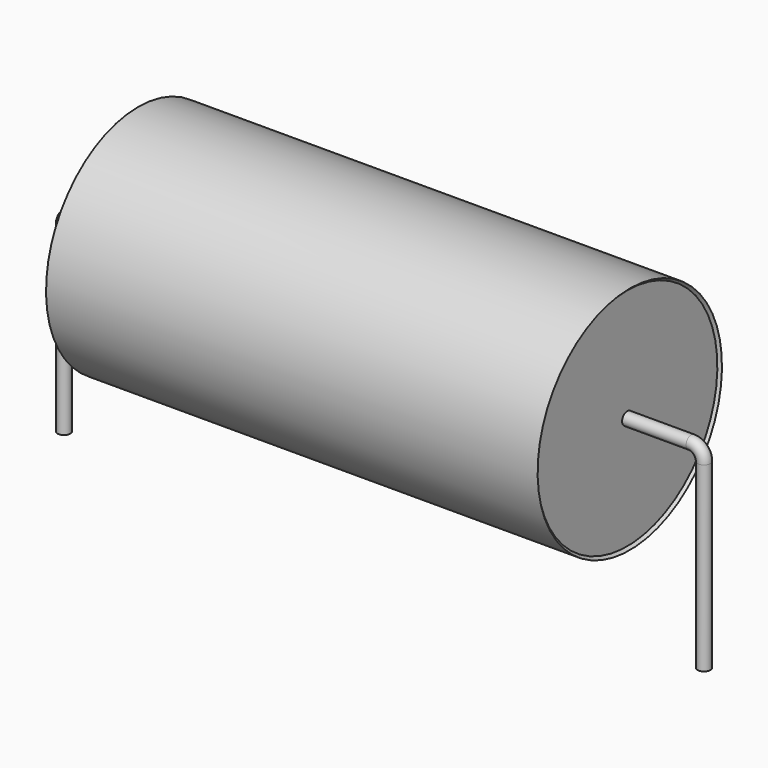
from build123d import *

# Parameters (mm, degrees)
SKETCH_R = 0.25


with BuildPart() as sweep_body:
    # Sweep: sweep along a path in Sketch001
    with BuildLine(Plane.XZ) as sweep_path:
        Line((0, -3), (0, 4.1))
        ThreePointArc((0, 4.1), (0.146445, 4.453551), (0.499995, 4.6))
        Line((0.499995, 4.6), (24.5, 4.6))
        ThreePointArc((24.5, 4.6), (24.853553, 4.453553), (25, 4.1))
        Line((25, 4.1), (25, -3))
    # Sketch → Sweep (sweep)
    with BuildSketch(Plane.XY.offset(-2)):
        Circle(SKETCH_R)
    sweep(path=sweep_path.line)


with BuildPart() as revolution:
    # Sketch002 → Revolution (revolve)
    with BuildSketch(Plane.XZ):
        Polygon((2.9, 9.1), (22.1, 9.1), (22, 9), (22, 4.6), (3, 4.6), (3, 9), align=None)
    revolve(axis=Axis((7.611803, 0, 4.6), (1, 0, 0)))


solid = Compound([sweep_body.part, revolution.part])
